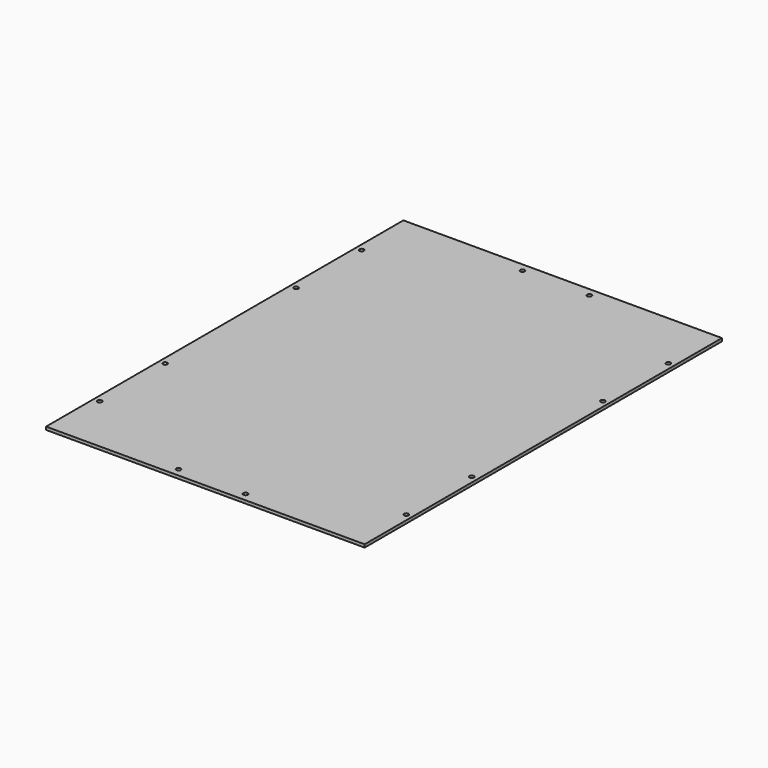
from build123d import *

# Parameters (mm, degrees)
F0_W     = 214
F0_H     = 300
F1_DEPTH = 2
F2_R     = 1.5
F3_DEPTH = 25


with BuildPart() as f1:
    # F0 (on Top) → F1 (new body)
    with BuildSketch(Plane.XY):
        with Locations((-12.423664, 52.290541)):
            Rectangle(F0_W, F0_H)
    extrude(amount=F1_DEPTH)

    # F2 (on face) → F3 (cut)
    with BuildSketch(Plane.XY.offset(2)):
        with Locations((-115.423664, -57.709459)):
            Circle(F2_R)
        with Locations((-115.423664, -2.709459)):
            Circle(F2_R)
        with Locations((-115.423664, 107.290541)):
            Circle(F2_R)
        with Locations((-115.423664, 162.290541)):
            Circle(F2_R)
        with Locations((-34.923664, 196.690541)):
            Circle(F2_R)
        with Locations((10.076336, 196.690541)):
            Circle(F2_R)
        with Locations((90.576336, 162.290541)):
            Circle(F2_R)
        with Locations((90.576336, 107.290541)):
            Circle(F2_R)
        with Locations((90.576336, -2.709459)):
            Circle(F2_R)
        with Locations((90.576336, -57.709459)):
            Circle(F2_R)
        with Locations((-34.923664, -92.109459)):
            Circle(F2_R)
        with Locations((10.076336, -92.109459)):
            Circle(F2_R)
    extrude(amount=-F3_DEPTH, mode=Mode.SUBTRACT)


solid = f1.part
